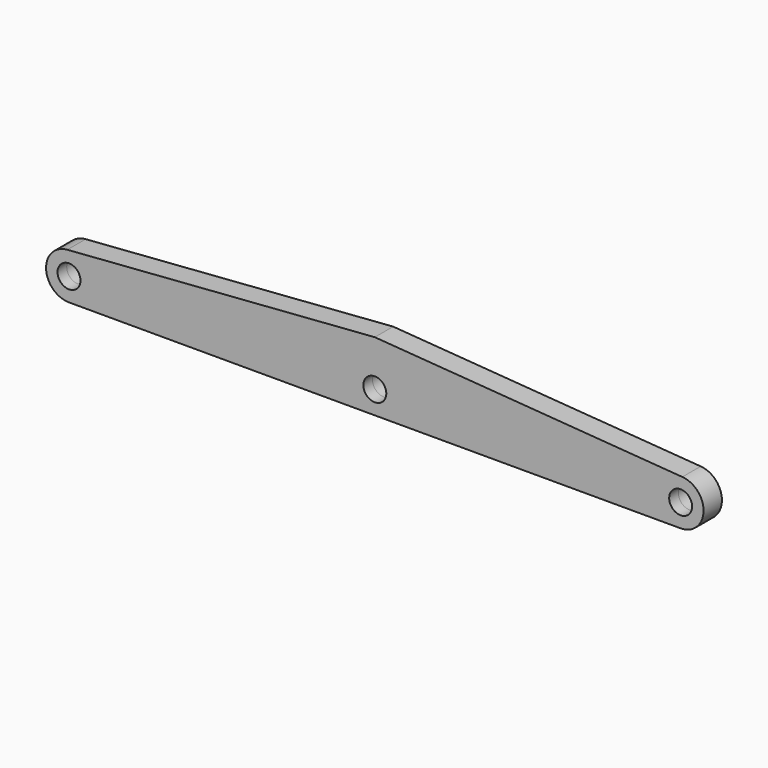
from build123d import *

# Parameters (mm, degrees)
F0_R          = 1.5
F1_DEPTH      = 1.5
F1_DEPTH_BACK = 1.5


with BuildPart() as f1:
    # F0 (on Front) → F1 (new body, two sides)
    with BuildSketch(Plane.XZ) as f1_sk:
        with BuildLine():
            Line((-40, -3), (0, -3))
            Line((0, -3), (40, -3))
            ThreePointArc((40, -3), (42.99791, -0.111951), (40.223747, 2.991645))
            Line((40.223747, 2.991645), (0, 6))
            Line((0, 6), (-40.223747, 2.991645))
            ThreePointArc((-40.223747, 2.991645), (-42.99791, -0.111951), (-40, -3))
        make_face()
        with Locations((-40, 0)):
            Circle(F0_R, mode=Mode.SUBTRACT)
        Circle(F0_R, mode=Mode.SUBTRACT)
        with Locations((40, 0)):
            Circle(F0_R, mode=Mode.SUBTRACT)
    extrude(amount=F1_DEPTH)
    extrude(f1_sk.sketch, amount=-F1_DEPTH_BACK)


solid = f1.part
